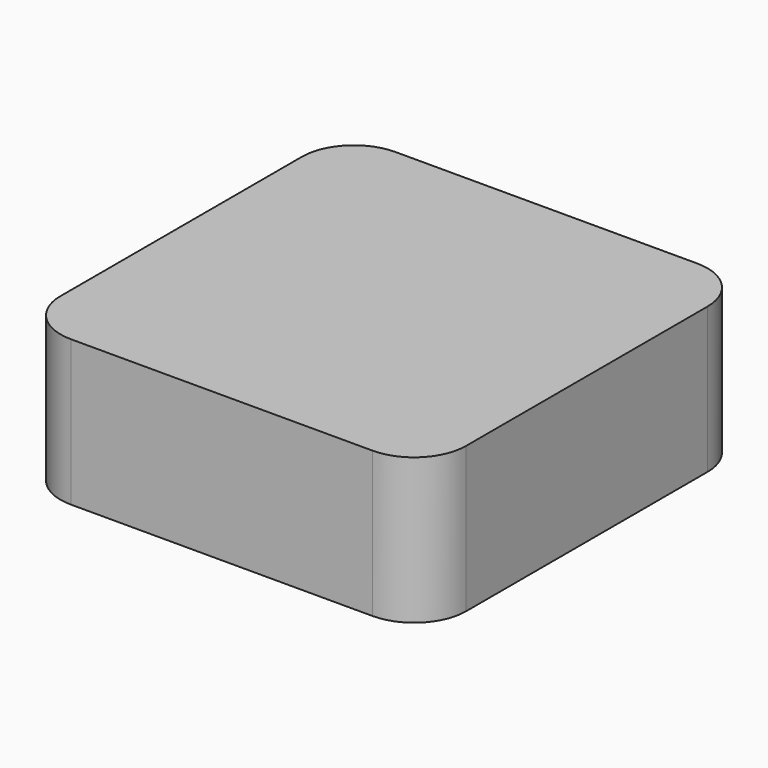
from build123d import *

# Parameters (mm, degrees)
F0_W     = 99.06
F0_H     = 99.06
F1_DEPTH = 35.56
F2_R     = 12.7
F3_W     = 25.4
F3_H     = 12.7
F4_DEPTH = 2.54


with BuildPart() as f1:
    # F0 (on Top) → F1 (new body)
    with BuildSketch(Plane.XY):
        Rectangle(F0_W, F0_H)
    extrude(amount=F1_DEPTH)

    # F2
    f2_edges = [f1.edges().sort_by_distance(p)[0] for p in [
        (49.53, -49.53, 17.78),
        (49.53, 49.53, 17.78),
        (-49.53, -49.53, 17.78),
        (-49.53, 49.53, 17.78),
    ]]
    fillet(f2_edges, radius=F2_R)

    # F3 (on face) → F4 (cut)
    with BuildSketch(Plane(origin=(0, 49.53, 0), x_dir=(-1, 0, 0), z_dir=(0, 1, 0))):
        with Locations((0, 17.78)):
            Rectangle(F3_W, F3_H)
    extrude(amount=-F4_DEPTH, mode=Mode.SUBTRACT)


solid = f1.part
